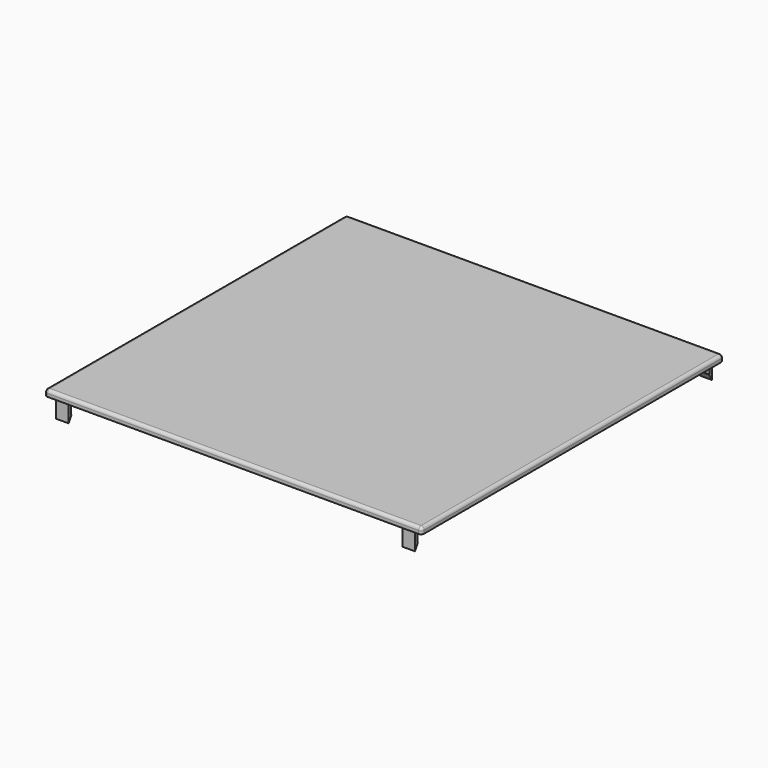
from build123d import *

# Parameters (mm, degrees)
BOX093_W               = 2
BOX093_H               = 3
BOX093_DEPTH           = 4
BOX093_PLACEMENT_ANGLE = 30
BOX095_W               = 1.2
BOX095_H               = 2
BOX095_DEPTH           = 4
BOX094_W               = 1
BOX094_H               = 6
BOX094_DEPTH           = 4
CUT041_ROLL_ANGLE      = 90
CUT041_PLACEMENT_ANGLE = 90
BOX096_W               = 2
BOX096_H               = 3
BOX096_DEPTH           = 4
BOX096_PLACEMENT_ANGLE = 30
BOX098_W               = 1.2
BOX098_H               = 2
BOX098_DEPTH           = 4
BOX097_W               = 1
BOX097_H               = 6
BOX097_DEPTH           = 4
CUT042_ROLL_ANGLE      = 90
CUT042_PLACEMENT_ANGLE = 90
BOX099_W               = 2
BOX099_H               = 3
BOX099_DEPTH           = 4
BOX099_PLACEMENT_ANGLE = 30
BOX101_W               = 1.2
BOX101_H               = 2
BOX101_DEPTH           = 4
BOX100_W               = 1
BOX100_H               = 6
BOX100_DEPTH           = 4
CUT043_ROLL_ANGLE      = 90
CUT043_PLACEMENT_ANGLE = -90
BOX102_W               = 2
BOX102_H               = 3
BOX102_DEPTH           = 4
BOX102_PLACEMENT_ANGLE = 30
BOX104_W               = 1.2
BOX104_H               = 2
BOX104_DEPTH           = 4
BOX103_W               = 1
BOX103_H               = 6
BOX103_DEPTH           = 4
CUT044_ROLL_ANGLE      = 90
CUT044_PLACEMENT_ANGLE = -90
BOX082_W               = 122
BOX082_H               = 122
BOX082_DEPTH           = 2
BOX083_W               = 120
BOX083_H               = 120
BOX083_DEPTH           = 80
THICKNESS010_T         = 1


with BuildPart() as cube074:
    # Box093 → Box093 (new body)
    with BuildSketch(Plane.XY):
        with Locations((1, 1.5)):
            Rectangle(BOX093_W, BOX093_H)
    extrude(amount=BOX093_DEPTH)


with BuildPart() as cube074_1:
    # Box093 placement: moved
    add(cube074.part.moved(Location((1, 0, 1))).rotate(Axis((1, 0, 1), (0, 0, -1)), BOX093_PLACEMENT_ANGLE))


with BuildPart() as cube076:
    # Box095 → Box095 (new body)
    with BuildSketch(Plane(origin=(1, 0, 1), x_dir=(1, 0, 0), z_dir=(0, 0, 1))):
        with Locations((0.6, 1)):
            Rectangle(BOX095_W, BOX095_H)
    extrude(amount=BOX095_DEPTH)


with BuildPart() as cut041:
    # Box094 → Box094 (new body)
    with BuildSketch(Plane(origin=(1, 0, 1), x_dir=(1, 0, 0), z_dir=(0, 0, 1))):
        with Locations((0.5, 3)):
            Rectangle(BOX094_W, BOX094_H)
    extrude(amount=BOX094_DEPTH)

    # Fusion030: union Cube076
    add(cube076.part)

    # Cut041: cut Cube074
    add(cube074_1.part, mode=Mode.SUBTRACT)


with BuildPart() as cut041_1:
    # Cut041 roll: moved
    add(cut041.part.rotate(Axis((0, 0, 0), (1, 0, 0)), CUT041_ROLL_ANGLE))


with BuildPart() as cut041_2:
    # Cut041 placement: moved
    add(cut041_1.part.moved(Location((1, -1, 250))).rotate(Axis((1, -1, 250), (0, 0, 1)), CUT041_PLACEMENT_ANGLE))


with BuildPart() as cube077:
    # Box096 → Box096 (new body)
    with BuildSketch(Plane.XY):
        with Locations((1, 1.5)):
            Rectangle(BOX096_W, BOX096_H)
    extrude(amount=BOX096_DEPTH)


with BuildPart() as cube077_1:
    # Box096 placement: moved
    add(cube077.part.moved(Location((1, 0, 1))).rotate(Axis((1, 0, 1), (0, 0, -1)), BOX096_PLACEMENT_ANGLE))


with BuildPart() as cube079:
    # Box098 → Box098 (new body)
    with BuildSketch(Plane(origin=(1, 0, 1), x_dir=(1, 0, 0), z_dir=(0, 0, 1))):
        with Locations((0.6, 1)):
            Rectangle(BOX098_W, BOX098_H)
    extrude(amount=BOX098_DEPTH)


with BuildPart() as cut042:
    # Box097 → Box097 (new body)
    with BuildSketch(Plane(origin=(1, 0, 1), x_dir=(1, 0, 0), z_dir=(0, 0, 1))):
        with Locations((0.5, 3)):
            Rectangle(BOX097_W, BOX097_H)
    extrude(amount=BOX097_DEPTH)

    # Fusion031: union Cube079
    add(cube079.part)

    # Cut042: cut Cube077
    add(cube077_1.part, mode=Mode.SUBTRACT)


with BuildPart() as cut042_1:
    # Cut042 roll: moved
    add(cut042.part.rotate(Axis((0, 0, 0), (1, 0, 0)), CUT042_ROLL_ANGLE))


with BuildPart() as cut042_2:
    # Cut042 placement: moved
    add(cut042_1.part.moved(Location((113, -1, 250))).rotate(Axis((113, -1, 250), (0, 0, 1)), CUT042_PLACEMENT_ANGLE))


with BuildPart() as cube080:
    # Box099 → Box099 (new body)
    with BuildSketch(Plane.XY):
        with Locations((1, 1.5)):
            Rectangle(BOX099_W, BOX099_H)
    extrude(amount=BOX099_DEPTH)


with BuildPart() as cube080_1:
    # Box099 placement: moved
    add(cube080.part.moved(Location((1, 0, 1))).rotate(Axis((1, 0, 1), (0, 0, -1)), BOX099_PLACEMENT_ANGLE))


with BuildPart() as cube082:
    # Box101 → Box101 (new body)
    with BuildSketch(Plane(origin=(1, 0, 1), x_dir=(1, 0, 0), z_dir=(0, 0, 1))):
        with Locations((0.6, 1)):
            Rectangle(BOX101_W, BOX101_H)
    extrude(amount=BOX101_DEPTH)


with BuildPart() as cut043:
    # Box100 → Box100 (new body)
    with BuildSketch(Plane(origin=(1, 0, 1), x_dir=(1, 0, 0), z_dir=(0, 0, 1))):
        with Locations((0.5, 3)):
            Rectangle(BOX100_W, BOX100_H)
    extrude(amount=BOX100_DEPTH)

    # Fusion032: union Cube082
    add(cube082.part)

    # Cut043: cut Cube080
    add(cube080_1.part, mode=Mode.SUBTRACT)


with BuildPart() as cut043_1:
    # Cut043 roll: moved
    add(cut043.part.rotate(Axis((0, 0, 0), (1, 0, 0)), CUT043_ROLL_ANGLE))


with BuildPart() as cut043_2:
    # Cut043 placement: moved
    add(cut043_1.part.moved(Location((119, 121, 250))).rotate(Axis((119, 121, 250), (0, 0, 1)), CUT043_PLACEMENT_ANGLE))


with BuildPart() as cube083:
    # Box102 → Box102 (new body)
    with BuildSketch(Plane.XY):
        with Locations((1, 1.5)):
            Rectangle(BOX102_W, BOX102_H)
    extrude(amount=BOX102_DEPTH)


with BuildPart() as cube083_1:
    # Box102 placement: moved
    add(cube083.part.moved(Location((1, 0, 1))).rotate(Axis((1, 0, 1), (0, 0, -1)), BOX102_PLACEMENT_ANGLE))


with BuildPart() as cube085:
    # Box104 → Box104 (new body)
    with BuildSketch(Plane(origin=(1, 0, 1), x_dir=(1, 0, 0), z_dir=(0, 0, 1))):
        with Locations((0.6, 1)):
            Rectangle(BOX104_W, BOX104_H)
    extrude(amount=BOX104_DEPTH)


with BuildPart() as cut044:
    # Box103 → Box103 (new body)
    with BuildSketch(Plane(origin=(1, 0, 1), x_dir=(1, 0, 0), z_dir=(0, 0, 1))):
        with Locations((0.5, 3)):
            Rectangle(BOX103_W, BOX103_H)
    extrude(amount=BOX103_DEPTH)

    # Fusion033: union Cube085
    add(cube085.part)

    # Cut044: cut Cube083
    add(cube083_1.part, mode=Mode.SUBTRACT)


with BuildPart() as cut044_1:
    # Cut044 roll: moved
    add(cut044.part.rotate(Axis((0, 0, 0), (1, 0, 0)), CUT044_ROLL_ANGLE))


with BuildPart() as cut044_2:
    # Cut044 placement: moved
    add(cut044_1.part.moved(Location((7, 121, 250))).rotate(Axis((7, 121, 250), (0, 0, 1)), CUT044_PLACEMENT_ANGLE))


with BuildPart() as cube063:
    # Box082 → Box082 (new body)
    with BuildSketch(Plane(origin=(-1, -1, 234), x_dir=(1, 0, 0), z_dir=(0, 0, 1))):
        with Locations((61, 61)):
            Rectangle(BOX082_W, BOX082_H)
    extrude(amount=BOX082_DEPTH)


with BuildPart() as panel:
    # Box083 → Box083 (new body)
    with BuildSketch(Plane.XY.offset(155)):
        with Locations((60, 60)):
            Rectangle(BOX083_W, BOX083_H)
    extrude(amount=BOX083_DEPTH)

    # Thickness010
    thickness010_openings = [panel.faces().sort_by_distance(p)[0] for p in [
        (60, 60, 155),
    ]]
    offset(amount=THICKNESS010_T, openings=thickness010_openings)

    # Common002: intersect Cube063
    add(cube063.part, mode=Mode.INTERSECT)


with BuildPart() as panel_1:
    # Common002 placement: moved
    add(panel.part.moved(Location((0, 0, 22))))

    # Fusion034: union Cut041, Cut042, Cut043, Cut044
    add(cut041_2.part)
    add(cut042_2.part)
    add(cut043_2.part)
    add(cut044_2.part)


solid = panel_1.part
